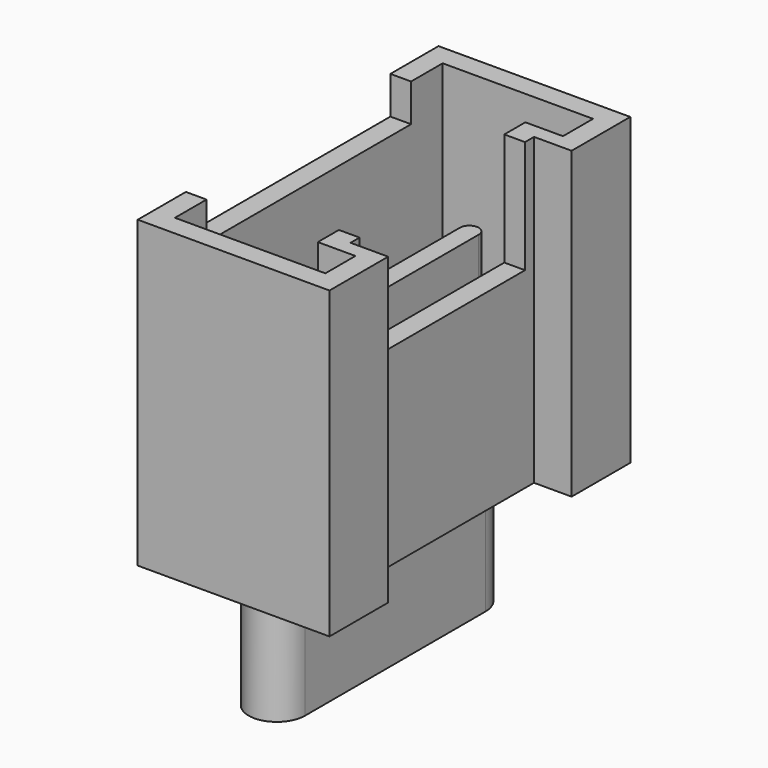
from build123d import *

# Parameters (mm, degrees)
PAD005_DEPTH            = 8.1
POCKET003_DEPTH         = 7
SKETCH010_W             = 6.8
SKETCH010_H             = 5
POCKET006_DEPTH         = 1
SKETCH011_W             = 5.5
SKETCH011_H             = 3
POCKET005_DEPTH         = 3
PAD006_DEPTH            = 4
PAD007_DEPTH            = 3.4
BODY007_PLACEMENT_ANGLE = 90


with BuildPart() as part:
    # Sketch008 → Pad005 (new body)
    with BuildSketch(Plane.XY):
        Polygon((-5, 0), (-3.05, 0), (-3.05, 1), (3.05, 1), (3.05, 0), (5, 0), (5, 5.1), (-5, 5.1), align=None)
    extrude(amount=PAD005_DEPTH)

    # Sketch009 (on Face10 of Pad005) → Pocket003 (cut)
    with BuildSketch(Plane.XY.offset(8.1)):
        Polygon((-4.45, 0.55), (-3.45, 0.55), (-3.45, 1.55), (3.45, 1.55), (3.45, 0.55), (4.45, 0.55), (4.45, 4.55), (-4.45, 4.55), align=None)
    extrude(amount=-POCKET003_DEPTH, mode=Mode.SUBTRACT)

    # Sketch010 (on Face5 of Pocket003) → Pocket006 (cut)
    with BuildSketch(Plane.XY.offset(8.1)):
        with Locations((0, 5.5)):
            Rectangle(SKETCH010_W, SKETCH010_H)
    extrude(amount=-POCKET006_DEPTH, mode=Mode.SUBTRACT)

    # Sketch011 (on Face5 of Pocket006) → Pocket005 (cut)
    with BuildSketch(Plane.XY.offset(8.1)):
        with Locations((0, 1.5)):
            Rectangle(SKETCH011_W, SKETCH011_H)
    extrude(amount=-POCKET005_DEPTH, mode=Mode.SUBTRACT)

    # Sketch015 (on Face26 of Pocket005) → Pad006 (join)
    with BuildSketch(Plane.XY.offset(1.1)):
        with BuildLine():
            ThreePointArc((-3.4, 3.25), (-3.65, 3), (-3.4, 2.75))
            Line((-3.4, 2.75), (3.4, 2.75))
            ThreePointArc((3.4, 2.75), (3.65, 3), (3.4, 3.25))
            Line((-3.4, 3.25), (3.4, 3.25))
        make_face()
    extrude(amount=PAD006_DEPTH)

    # Sketch014 → Pad007 (join)
    with BuildSketch(Plane.XY):
        with BuildLine():
            ThreePointArc((-3, 3.75), (-3.75, 3), (-3, 2.25))
            Line((-3, 2.25), (3, 2.25))
            ThreePointArc((3, 2.25), (3.75, 3), (3, 3.75))
            Line((-3, 3.75), (3, 3.75))
        make_face()
    extrude(amount=-PAD007_DEPTH)


with BuildPart() as part_1:
    # Body007 placement: moved
    add(part.part.moved(Location((-13.8, 0, 1.6))).rotate(Axis((-13.8, 0, 1.6), (0, 0, 1)), BODY007_PLACEMENT_ANGLE))


with BuildPart() as part_2:
    # Clone003 placement: moved
    add(part_1.part.moved(Location((-0.2, 0, 0))))


with BuildPart() as part_3:
    # Body009 placement: moved
    add(part_2.part.moved(Location((25, 0, 0))))


solid = part_3.part
